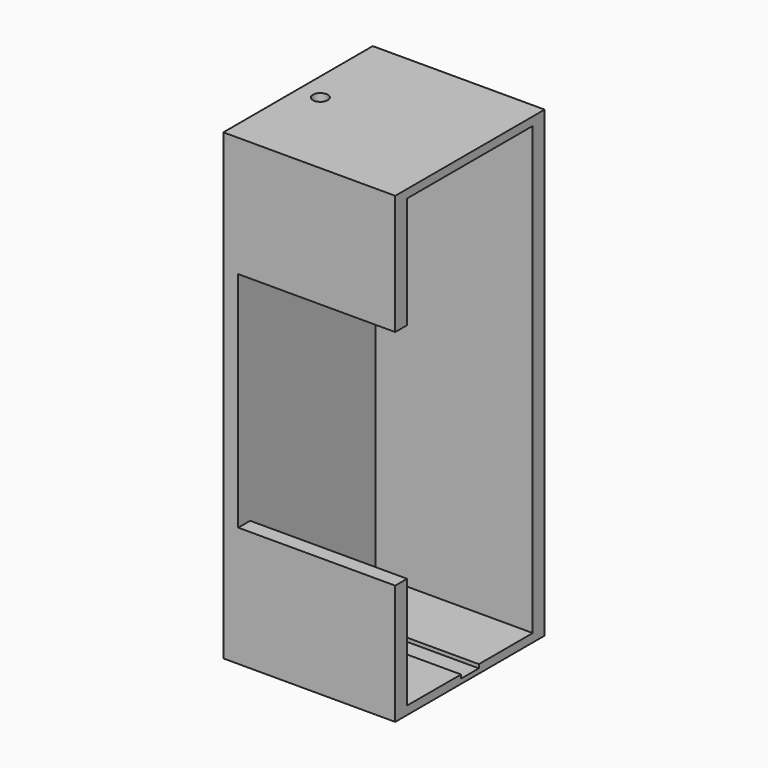
from build123d import *

# Parameters (mm, degrees)
F0_W      = 23.1
F0_H      = 25.1
F1_DEPTH  = 62.25
F2_W      = 21.1
F2_H      = 60
F3_DEPTH  = 21.1
F4_W      = 3
F4_H      = 1
F5_DEPTH  = 21.1
F6_W      = 4
F6_H      = 30
F7_DEPTH  = 21.1
F9_D      = 2
F9_DEPTH  = 2
F11_D     = 2
F11_DEPTH = 2


with BuildPart() as f1:
    # F0 (on Top) → F1 (new body)
    with BuildSketch(Plane.XY):
        Rectangle(F0_W, F0_H)
    extrude(amount=F1_DEPTH)

    # F2 (on face) → F3 (cut)
    with BuildSketch(Plane.YZ.offset(11.55)):
        with Locations((0, 31.125)):
            Rectangle(F2_W, F2_H)
    extrude(amount=-F3_DEPTH, mode=Mode.SUBTRACT)

    # F4 (on face) → F5 (cut)
    with BuildSketch(Plane.YZ.offset(11.55)):
        with Locations((0, 1.125)):
            Rectangle(F4_W, F4_H)
    extrude(amount=-F5_DEPTH, mode=Mode.SUBTRACT)

    # F6 (on face) → F7 (cut)
    with BuildSketch(Plane.YZ.offset(11.55)):
        with Locations((-12.55, 31.125)):
            Rectangle(F6_W, F6_H)
    extrude(amount=-F7_DEPTH, mode=Mode.SUBTRACT)

    # F9
    with Locations(Plane(origin=(0, 0, 61.125), x_dir=(1, 0, 0), z_dir=(0, 0, -1))):
        with Locations((-8.55, 0)):
            Hole(F9_D / 2, depth=F9_DEPTH)

    # F11
    with Locations(Plane.XY.offset(0.625)):
        with Locations((-8.55, 0)):
            Hole(F11_D / 2, depth=F11_DEPTH)


solid = f1.part
